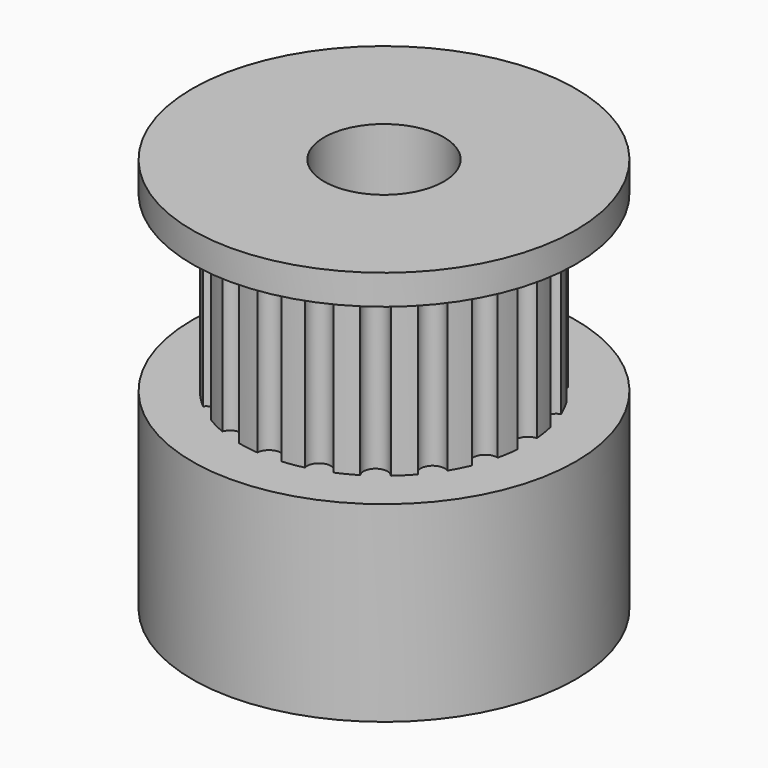
from build123d import *

# Parameters (mm, degrees)
SKETCH025_R              = 8
PAD014_DEPTH             = 8
SKETCH026_R              = 6
PAD015_DEPTH             = 7.25
SKETCH027_R              = 0.5
POCKET008_DEPTH          = 7.25
POLARPATTERN_COUNT       = 20
SKETCH028_R              = 8
PAD016_DEPTH             = 1.25
SKETCH029_R              = 2.5
POCKET009_DEPTH          = 16.5
CLONE009_PLACEMENT_ANGLE = 180


with BuildPart() as part:
    # Sketch025 → Pad014 (new body)
    with BuildSketch(Plane(origin=(20, -80, 0), x_dir=(1, 0, 0), z_dir=(0, 0, -1))):
        Circle(SKETCH025_R)
    extrude(amount=PAD014_DEPTH)

    # Sketch026 → Pad015 (new body)
    with BuildSketch(Plane(origin=(20, -80, -8), x_dir=(1, 0, 0), z_dir=(0, 0, -1))):
        Circle(SKETCH026_R)
    extrude(amount=PAD015_DEPTH)

    # Sketch027 → Pocket008 (cut)
    with BuildSketch(Plane(origin=(20, -80, -15.25), x_dir=(1, 0, 0), z_dir=(0, 0, -1))):
        with Locations((6, 0)):
            Circle(SKETCH027_R)
    pocket008 = extrude(amount=-POCKET008_DEPTH, mode=Mode.SUBTRACT)

    # PolarPattern: Pocket008 ×20 about axis
    polarpattern_axis = Axis((20, -80, -15.25), (0, 0, -1))
    for i in range(1, POLARPATTERN_COUNT):
        add(pocket008.rotate(polarpattern_axis, i * 360 / POLARPATTERN_COUNT), mode=Mode.SUBTRACT)

    # Sketch028 → Pad016 (new body)
    with BuildSketch(Plane(origin=(20, -80, -15.25), x_dir=(1, 0, 0), z_dir=(0, 0, -1))):
        Circle(SKETCH028_R)
    extrude(amount=PAD016_DEPTH)

    # Sketch029 → Pocket009 (cut)
    with BuildSketch(Plane(origin=(20, -80, -16.5), x_dir=(1, 0, 0), z_dir=(0, 0, -1))):
        Circle(SKETCH029_R)
    extrude(amount=-POCKET009_DEPTH, mode=Mode.SUBTRACT)


with BuildPart() as part_1:
    # Clone009 placement: moved
    add(part.part.moved(Location((120, -180, -5))).rotate(Axis((120, -180, -5), (-1, 0, 0)), CLONE009_PLACEMENT_ANGLE))


solid = part_1.part
